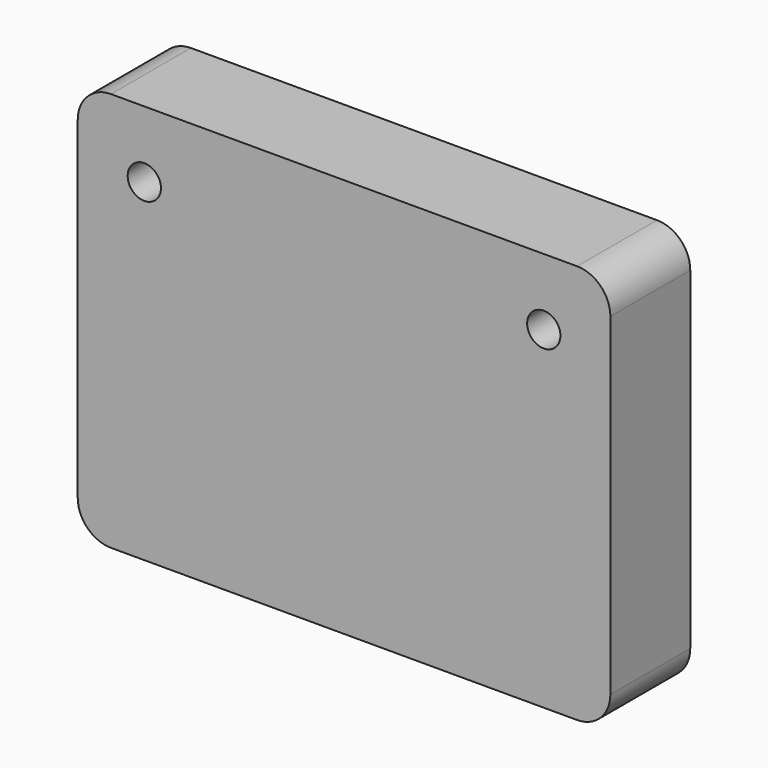
from build123d import *

# Parameters (mm, degrees)
F0_W     = 80
F0_H     = 60
F1_DEPTH = 15
F3_D     = 5
F4_R     = 5


with BuildPart() as f1:
    # F0 (on Front) → F1 (new body)
    with BuildSketch(Plane.XZ):
        Rectangle(F0_W, F0_H)
    extrude(amount=F1_DEPTH)

    # F3 (through all)
    with Locations(Plane.XZ.offset(15)):
        with Locations((-30, 20), (30, 20)):
            Hole(F3_D / 2)

    # F4
    f4_edges = [f1.edges().sort_by_distance(p)[0] for p in [
        (40, -7.5, 30),
        (-40, -7.5, 30),
        (-40, -7.5, -30),
        (40, -7.5, -30),
    ]]
    fillet(f4_edges, radius=F4_R)


solid = f1.part
